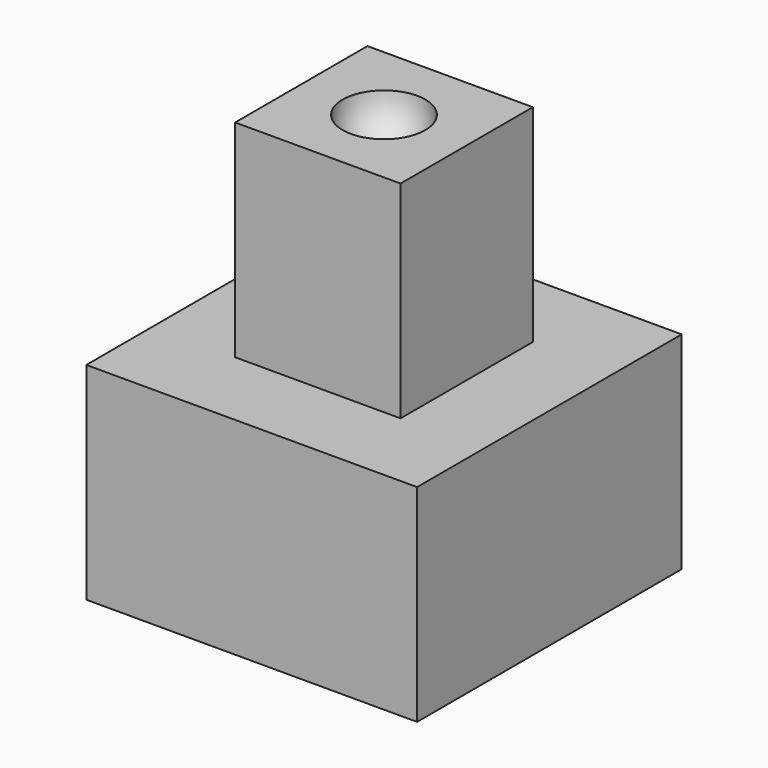
from build123d import *

# Parameters (mm, degrees)
BOX003_W     = 10
BOX003_H     = 10
BOX003_DEPTH = 8
BOX002_W     = 8
BOX002_H     = 8
BOX002_DEPTH = 20
BOX_W        = 16
BOX_H        = 16
BOX_DEPTH    = 10


with BuildPart() as cube001:
    # Box003 → Box003 (new body)
    with BuildSketch(Plane(origin=(-5, -5, 0), x_dir=(1, 0, 0), z_dir=(0, 0, 1))):
        with Locations((5, 5)):
            Rectangle(BOX003_W, BOX003_H)
    extrude(amount=BOX003_DEPTH)


with BuildPart() as body:
    # Box002 → Box002 (join)
    with BuildSketch(Plane(origin=(-4, -4, 0), x_dir=(1, 0, 0), z_dir=(0, 0, 1))):
        with Locations((4, 4)):
            Rectangle(BOX002_W, BOX002_H)
    extrude(amount=BOX002_DEPTH)

    # Sphere → Sphere (revolve, cut)
    with BuildSketch(Plane(origin=(0, 0, 20), x_dir=(1, 0, 0), z_dir=(0, -1, 0))):
        with BuildLine():
            ThreePointArc((0, -2), (2, 0), (0, 2))
            Line((0, 2), (0, -2))
        make_face()
    revolve(axis=Axis((0, 0, 20), (0, 0, 1)), mode=Mode.SUBTRACT)


with BuildPart() as cut:
    # Box → Box (new body)
    with BuildSketch(Plane(origin=(-8, -8, 0), x_dir=(1, 0, 0), z_dir=(0, 0, 1))):
        with Locations((8, 8)):
            Rectangle(BOX_W, BOX_H)
    extrude(amount=BOX_DEPTH)

    # Fusion: union Body
    add(body.part)

    # Cut: cut Cube001
    add(cube001.part, mode=Mode.SUBTRACT)


solid = cut.part
